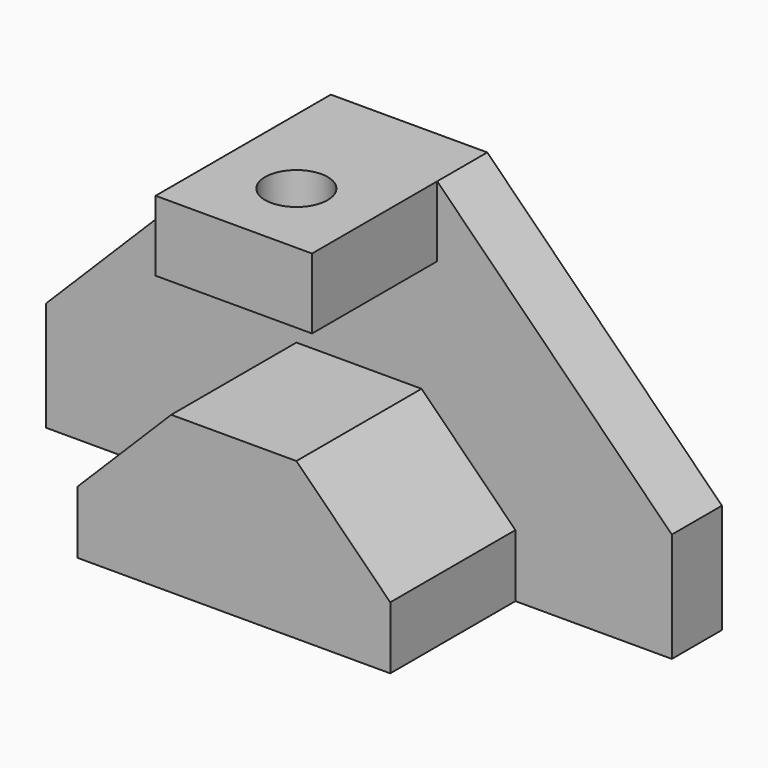
from build123d import *

# Parameters (mm, degrees)
F1_DEPTH = 12.7
F3_DEPTH = 31.75
F2_W     = 31.75
F2_H     = 14.2875
F4_DEPTH = 31.75
F5_R     = 6.35
F6_DEPTH = 14.2875


with BuildPart() as f1:
    # F0 (on Front) → F1 (new body)
    with BuildSketch(Plane.XZ):
        Polygon((10.519018, 17.022893), (-21.230982, 17.022893), (-68.855982, -30.602107), (-68.855982, -52.827107), (58.144018, -52.827107), (58.144018, -30.602107), align=None)
    extrude(amount=F1_DEPTH)

    # F2 (on face) → F3 (join)
    with BuildSketch(Plane.XZ.offset(12.7)):
        Polygon((7.344018, -21.077107), (-18.055982, -21.077107), (-37.105982, -40.127107), (-37.105982, -52.827107), (26.394018, -52.827107), (26.394018, -40.127107), align=None)
    extrude(amount=F3_DEPTH)

    # F2 (on face) → F4 (join)
    with BuildSketch(Plane.XZ.offset(12.7)):
        with Locations((-5.355982, 9.879143)):
            Rectangle(F2_W, F2_H)
    extrude(amount=F4_DEPTH)

    # F5 (on face) → F6 (cut)
    with BuildSketch(Plane.XY.offset(17.022893)):
        with Locations((-5.355982, -28.575)):
            Circle(F5_R)
    extrude(amount=-F6_DEPTH, mode=Mode.SUBTRACT)


solid = f1.part
